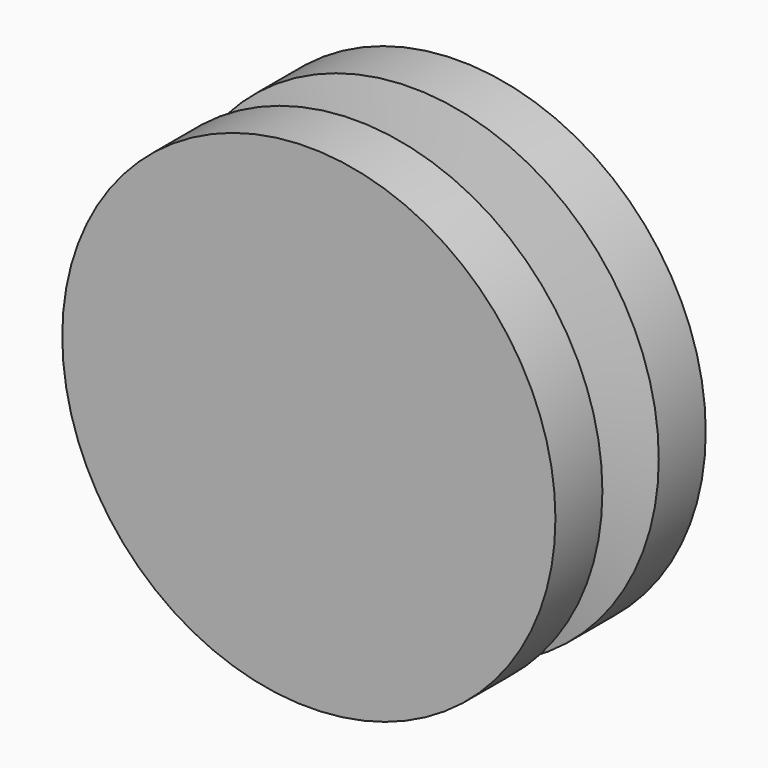
from build123d import *

# Parameters (mm, degrees)
CONE001_ROLL_ANGLE     = 90
CYLINDER006_R          = 10.5
CYLINDER006_DEPTH      = 2.5
CYLINDER006_ROLL_ANGLE = 90
CYLINDER005_R          = 10.5
CYLINDER005_DEPTH      = 2.5
CYLINDER005_ROLL_ANGLE = 90
CONE_ROLL_ANGLE        = 90


with BuildPart() as cone001:
    # Cone001 → Cone001 (revolve)
    with BuildSketch(Plane.XZ):
        Polygon((0, 0), (10.5, 0), (6, 1), (0, 1), align=None)
    revolve(axis=Axis((0, 0, 0), (0, 0, 1)))


with BuildPart() as cone001_1:
    # Cone001 roll: moved
    add(cone001.part.rotate(Axis((0, 0, 0), (1, 0, 0)), CONE001_ROLL_ANGLE))


with BuildPart() as cone001_2:
    # Cone001 placement: moved
    add(cone001_1.part.moved(Location((0, 1.5, 8.5))))


with BuildPart() as cylinder006:
    # Cylinder006 → Cylinder006 (new body)
    with BuildSketch(Plane.XY):
        Circle(CYLINDER006_R)
    extrude(amount=CYLINDER006_DEPTH)


with BuildPart() as cylinder006_1:
    # Cylinder006 roll: moved
    add(cylinder006.part.rotate(Axis((0, 0, 0), (1, 0, 0)), CYLINDER006_ROLL_ANGLE))


with BuildPart() as cylinder006_2:
    # Cylinder006 placement: moved
    add(cylinder006_1.part.moved(Location((0, 4, 8.5))))


with BuildPart() as cylinder005:
    # Cylinder005 → Cylinder005 (new body)
    with BuildSketch(Plane.XY):
        Circle(CYLINDER005_R)
    extrude(amount=CYLINDER005_DEPTH)


with BuildPart() as cylinder005_1:
    # Cylinder005 roll: moved
    add(cylinder005.part.rotate(Axis((0, 0, 0), (1, 0, 0)), CYLINDER005_ROLL_ANGLE))


with BuildPart() as cylinder005_2:
    # Cylinder005 placement: moved
    add(cylinder005_1.part.moved(Location((0, -1.5, 8.5))))


with BuildPart() as fusion005:
    # Cone → Cone (revolve)
    with BuildSketch(Plane.XZ):
        Polygon((0, 0), (6, 0), (10.5, 1), (0, 1), align=None)
    revolve(axis=Axis((0, 0, 0), (0, 0, 1)))


with BuildPart() as fusion005_1:
    # Cone roll: moved
    add(fusion005.part.rotate(Axis((0, 0, 0), (1, 0, 0)), CONE_ROLL_ANGLE))


with BuildPart() as fusion005_2:
    # Cone placement: moved
    add(fusion005_1.part.moved(Location((0, -0.5, 8.5))))

    # Fusion005: union Cone001, Cylinder006, Cylinder005
    add(cone001_2.part)
    add(cylinder006_2.part)
    add(cylinder005_2.part)


solid = fusion005_2.part
